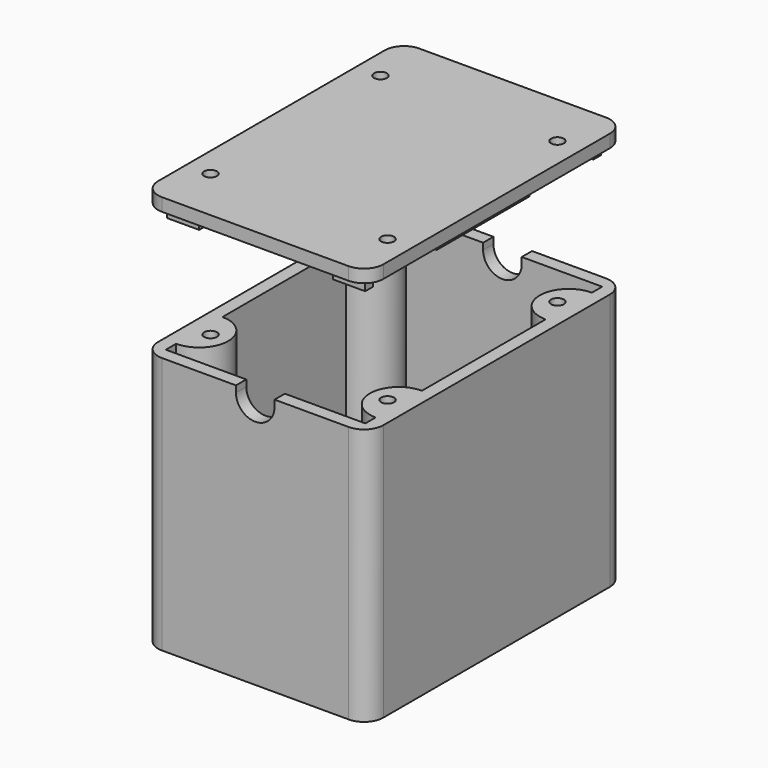
from build123d import *

# Parameters (mm, degrees)
F0_W      = 35
F0_H      = 50
F1_DEPTH  = 40
F2_T      = -2
F3_R      = 6.25
F4_DEPTH  = 2
F6_DEPTH  = 50.001
F8_DEPTH  = 39
F10_W     = 35
F10_H     = 50
F11_DEPTH = 2
F12_W     = 5
F12_H     = 1.5
F13_DEPTH = 4
F14_R     = 1
F15_DEPTH = 23.4
F16_R     = 3
F16_2_R   = 3


with BuildPart() as f1:
    # F0 (on Top) → F1 (new body)
    with BuildSketch(Plane.XY):
        with Locations((17.5, 25)):
            Rectangle(F0_W, F0_H)
    extrude(amount=F1_DEPTH)

    # F2
    f2_openings = [f1.faces().sort_by_distance(p)[0] for p in [
        (17.5, 25, 40),
    ]]
    offset(amount=F2_T, openings=f2_openings)

    # F3 (on face) → F4 (cut, through all)
    with BuildSketch(Plane(origin=(0, 0, 0), x_dir=(1, 0, 0), z_dir=(0, 0, -1))):
        with Locations((17.5, -25)):
            Circle(F3_R)
    extrude(amount=-F4_DEPTH, mode=Mode.SUBTRACT)

    # F5 (on face) → F6 (cut, through all)
    with BuildSketch(Plane(origin=(0, 50, 0), x_dir=(-1, 0, 0), z_dir=(0, 1, 0))):
        with BuildLine():
            Line((-14.5, 40), (-20.5, 40))
            Line((-20.5, 40), (-20.5, 39))
            ThreePointArc((-20.5, 39), (-17.5, 36), (-14.5, 39))
            Line((-14.5, 39), (-14.5, 40))
        make_face()
    extrude(amount=-F6_DEPTH, mode=Mode.SUBTRACT)

    # F7 (on face) → F8 (join)
    with BuildSketch(Plane.XY.offset(40)):
        with BuildLine():
            Line((2, 46), (2, 37))
            ThreePointArc((2, 37), (6.5, 41.5), (2, 46))
        make_face()
        with BuildLine():
            ThreePointArc((33, 46), (28.5, 41.5), (33, 37))
            Line((33, 37), (33, 46))
        make_face()
        with BuildLine():
            Line((33, 4), (33, 13))
            ThreePointArc((33, 13), (28.5, 8.5), (33, 4))
        make_face()
        with BuildLine():
            ThreePointArc((2, 4), (6.5, 8.5), (2, 13))
            Line((2, 13), (2, 4))
        make_face()
    extrude(amount=-F8_DEPTH)


with BuildPart() as f11:
    # F10 (on offset) → F11 (new body)
    with BuildSketch(Plane.XY.offset(60)):
        with Locations((17.5, 25)):
            Rectangle(F10_W, F10_H)
    extrude(amount=F11_DEPTH)

    # F12 (on face) → F13 (join)
    with BuildSketch(Plane.XY.offset(62)):
        Polygon((3.6, 25), (3.6, 34), (2.1, 34), (2.1, 25), (2.1, 16), (3.6, 16), align=None)
        with Locations((4.6, 47.15)):
            Rectangle(F12_W, F12_H)
        with Locations((30.4, 47.15)):
            Rectangle(F12_W, F12_H)
        Polygon((32.9, 34), (31.4, 34), (31.4, 25), (31.4, 16), (32.9, 16), (32.9, 25), align=None)
        with Locations((30.4, 2.85)):
            Rectangle(F12_W, F12_H)
        with Locations((4.6, 2.85)):
            Rectangle(F12_W, F12_H)
    extrude(amount=-F13_DEPTH)


with BuildPart() as f15_tool:
    # F14 (on face) → F15 (new body, symmetric)
    with BuildSketch(Plane.XY.offset(40)):
        with Locations((31.25, 41.5)):
            Circle(F14_R)
        with Locations((31.25, 8.5)):
            Circle(F14_R)
        with Locations((3.75, 41.5)):
            Circle(F14_R)
        with Locations((3.75, 8.5)):
            Circle(F14_R)
    extrude(amount=F15_DEPTH, both=True)


with BuildPart() as f1_1:
    add(f1.part)

    # F15: cut by f15_tool
    add(f15_tool.part, mode=Mode.SUBTRACT)

    # F16
    f16_edges = [f1_1.edges().sort_by_distance(p)[0] for p in [
        (35, 0, 20),
        (0, 0, 20),
        (35, 50, 20),
        (0, 50, 20),
    ]]
    fillet(f16_edges, radius=F16_R)


with BuildPart() as f11_1:
    add(f11.part)

    # F15: cut by f15_tool
    add(f15_tool.part, mode=Mode.SUBTRACT)

    # F16#2
    f16_2_edges = [f11_1.edges().sort_by_distance(p)[0] for p in [
        (0, 0, 61),
        (35, 0, 61),
        (35, 50, 61),
        (0, 50, 61),
    ]]
    fillet(f16_2_edges, radius=F16_2_R)


solid = Compound([f1_1.part, f11_1.part])
